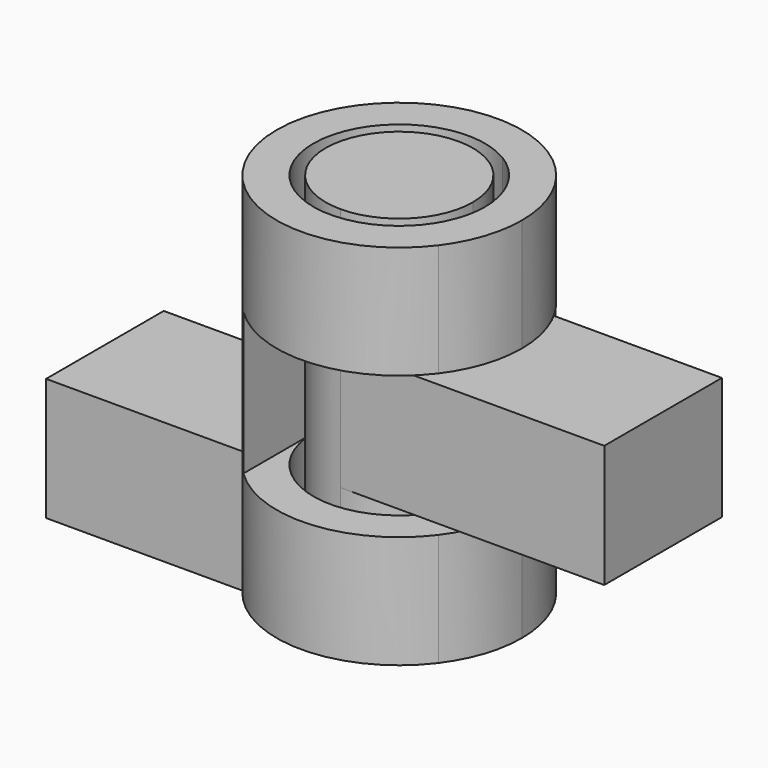
from build123d import *

# Parameters (mm, degrees)
F1_DEPTH = 15
F2_START = 5
F2_DEPTH = 5
F3_DEPTH = 4.6
F5_DEPTH = 5.8
F6_START = 10.4
F6_DEPTH = 4.6
F7_DEPTH = 5


with BuildPart() as f1:
    # F0 (on Top) → F1 (new body)
    with BuildSketch(Plane.XY):
        with BuildLine():
            ThreePointArc((0, -3), (2.1213203436, -2.1213203436), (3, 0))
            ThreePointArc((3, 0), (2.1213203436, 2.1213203436), (0, 3))
            ThreePointArc((0, 3), (-3, 0), (0, -3))
        make_face()
    extrude(amount=F1_DEPTH)

    # F0 (on Top) → F2 (join)
    with BuildSketch(Plane.XY.offset(F2_START)):
        with BuildLine():
            Line((10.7628116384, 3), (4, 3))
            ThreePointArc((4, 3), (4.7434164903, 1.5811388301), (5, 0))
            ThreePointArc((5, 0), (4.7434164903, -1.5811388301), (4, -3))
            Line((4, -3), (10.7628116384, -3))
            Line((10.7628116384, -3), (10.7628116384, 3))
        make_face()
        with BuildLine():
            ThreePointArc((0, 3), (2.1213203436, 2.1213203436), (3, 0))
            ThreePointArc((3, 0), (2.1213203436, -2.1213203436), (0, -3))
            Line((0, -3), (1.8027756377, -3))
            ThreePointArc((1.8027756377, -3), (3.0462858313, -1.7234101758), (3.5, 0))
            ThreePointArc((3.5, 0), (3.0462858313, 1.7234101758), (1.8027756377, 3))
            Line((1.8027756377, 3), (0, 3))
        make_face()
        with BuildLine():
            Line((4, 3), (1.8027756377, 3))
            ThreePointArc((1.8027756377, 3), (3.0462858313, 1.7234101758), (3.5, 0))
            ThreePointArc((3.5, 0), (3.0462858313, -1.7234101758), (1.8027756377, -3))
            Line((1.8027756377, -3), (4, -3))
            ThreePointArc((4, -3), (4.7434164903, -1.5811388301), (5, 0))
            ThreePointArc((5, 0), (4.7434164903, 1.5811388301), (4, 3))
        make_face()
    extrude(amount=F2_DEPTH)


with BuildPart() as f3:
    # F0 (on Top) → F3 (new body)
    with BuildSketch(Plane.XY):
        with BuildLine():
            ThreePointArc((1.8027756377, -3), (-3.5, 0), (1.8027756377, 3))
            Line((1.8027756377, 3), (4, 3))
            ThreePointArc((4, 3), (0, 5), (-4, 3))
            ThreePointArc((-4, 3), (-5, 0), (-4, -3))
            ThreePointArc((-4, -3), (0, -5), (4, -3))
            Line((4, -3), (1.8027756377, -3))
        make_face()
        with BuildLine():
            Line((4, 3), (1.8027756377, 3))
            ThreePointArc((1.8027756377, 3), (3.0462858313, 1.7234101758), (3.5, 0))
            ThreePointArc((3.5, 0), (3.0462858313, -1.7234101758), (1.8027756377, -3))
            Line((1.8027756377, -3), (4, -3))
            ThreePointArc((4, -3), (4.7434164903, -1.5811388301), (5, 0))
            ThreePointArc((5, 0), (4.7434164903, 1.5811388301), (4, 3))
        make_face()
    extrude(amount=F3_DEPTH)

    # F4 (on face) → F5 (join)
    with BuildSketch(Plane.XY.offset(4.6)):
        with BuildLine():
            Line((-3.5, 0), (-5, 0))
            ThreePointArc((-5, 0), (-4.6097722286, -1.9364916731), (-3.5, -3.5707142143))
            Line((-3.5, -3.5707142143), (-3.5, 0))
        make_face()
        with BuildLine():
            Line((0, 3.5), (0, 5))
            ThreePointArc((0, 5), (-3.5355339059, 3.5355339059), (-5, 0))
            Line((-5, 0), (-3.5, 0))
            ThreePointArc((-3.5, 0), (-2.4748737342, 2.4748737342), (0, 3.5))
        make_face()
        with BuildLine():
            ThreePointArc((3.5707142143, 3.5), (1.9364916731, 4.6097722286), (0, 5))
            Line((0, 5), (0, 3.5))
            Line((0, 3.5), (3.5707142143, 3.5))
        make_face()
    extrude(amount=F5_DEPTH)

    # F0 (on Top) → F6 (join)
    with BuildSketch(Plane.XY.offset(F6_START)):
        with BuildLine():
            ThreePointArc((1.8027756377, -3), (-3.5, 0), (1.8027756377, 3))
            Line((1.8027756377, 3), (4, 3))
            ThreePointArc((4, 3), (0, 5), (-4, 3))
            ThreePointArc((-4, 3), (-5, 0), (-4, -3))
            ThreePointArc((-4, -3), (0, -5), (4, -3))
            Line((4, -3), (1.8027756377, -3))
        make_face()
        with BuildLine():
            Line((4, 3), (1.8027756377, 3))
            ThreePointArc((1.8027756377, 3), (3.0462858313, 1.7234101758), (3.5, 0))
            ThreePointArc((3.5, 0), (3.0462858313, -1.7234101758), (1.8027756377, -3))
            Line((1.8027756377, -3), (4, -3))
            ThreePointArc((4, -3), (4.7434164903, -1.5811388301), (5, 0))
            ThreePointArc((5, 0), (4.7434164903, 1.5811388301), (4, 3))
        make_face()
    extrude(amount=F6_DEPTH)

    # F0 (on Top) → F7 (join)
    with BuildSketch(Plane.XY):
        with BuildLine():
            ThreePointArc((-4, -3), (-5, 0), (-4, 3))
            Line((-4, 3), (-12.0067028329, 3))
            Line((-12.0067028329, 3), (-12.0067028329, -3))
            Line((-12.0067028329, -3), (-4, -3))
        make_face()
    extrude(amount=F7_DEPTH)


solid = Compound([f1.part, f3.part])
